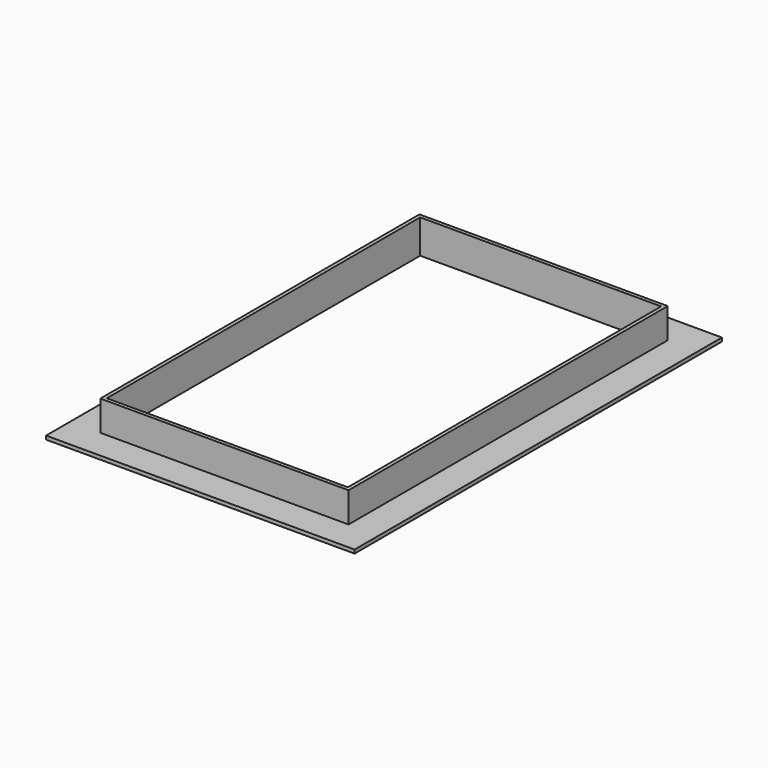
from build123d import *

# Parameters (mm, degrees)
SKETCH054_W            = 400
SKETCH054_H            = 60
PAD003_DEPTH           = 325
SKETCH055_W            = 412
SKETCH055_H            = 50
PAD008_DEPTH           = 331
SKETCH056_W            = 512
SKETCH056_H            = 762
PAD009_DEPTH           = 6
CUT003_PLACEMENT_ANGLE = 180


with BuildPart() as body002:
    # Sketch054 → Pad003 (new body, symmetric)
    with BuildSketch(Plane.XZ):
        with Locations((0, 30)):
            Rectangle(SKETCH054_W, SKETCH054_H)
    extrude(amount=PAD003_DEPTH, both=True)


with BuildPart() as cut003:
    # Sketch055 → Pad008 (new body, symmetric)
    with BuildSketch(Plane.XZ):
        with Locations((0, 25)):
            Rectangle(SKETCH055_W, SKETCH055_H)
    extrude(amount=PAD008_DEPTH, both=True)

    # Sketch056 (on Face3 of Pad008) → Pad009 (join)
    with BuildSketch(Plane(origin=(0, 0, 50), x_dir=(-1, 0, 0), z_dir=(0, 0, 1))):
        Rectangle(SKETCH056_W, SKETCH056_H)
    extrude(amount=PAD009_DEPTH)

    # Cut003: cut Body002
    add(body002.part, mode=Mode.SUBTRACT)


with BuildPart() as cut003_1:
    # Cut003 placement: moved
    add(cut003.part.rotate(Axis((0, 0, 0), (0, 1, 0)), CUT003_PLACEMENT_ANGLE))


solid = cut003_1.part
